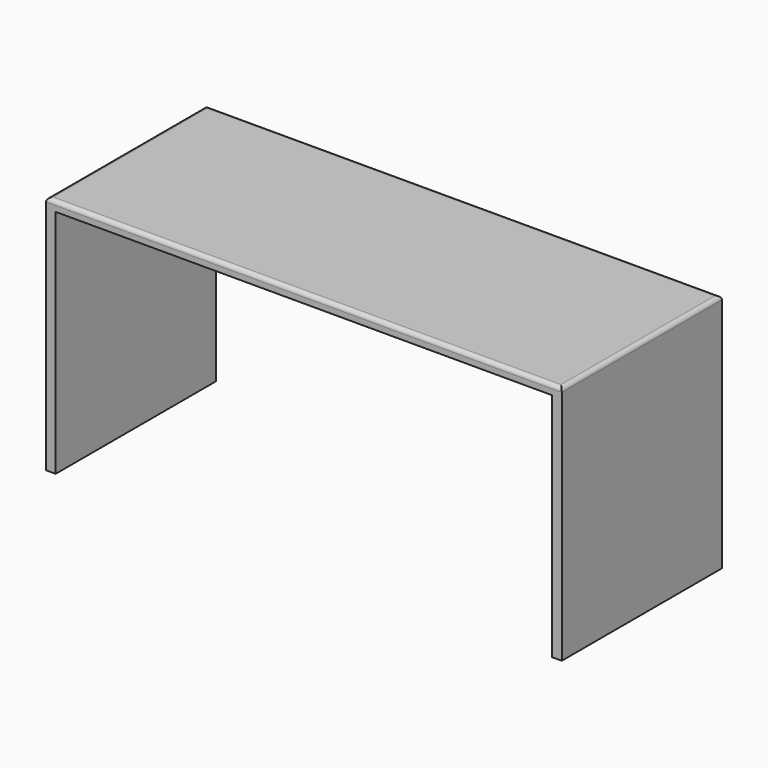
from build123d import *

# Parameters (mm, degrees)
F0_W     = 620
F0_H     = 250
F1_DEPTH = 12
F2_W     = 12
F2_H     = 250
F3_DEPTH = 300
F4_R     = 5


with BuildPart() as f1:
    # F0 (on Top) → F1 (new body)
    with BuildSketch(Plane.XY):
        with Locations((310, -125)):
            Rectangle(F0_W, F0_H)
    extrude(amount=-F1_DEPTH)

    # F2 (on Top) → F3 (join)
    with BuildSketch(Plane.XY):
        with Locations((-6, -125)):
            Rectangle(F2_W, F2_H)
        with Locations((626, -125)):
            Rectangle(F2_W, F2_H)
    extrude(amount=-F3_DEPTH)

    # F4
    f4_edges = [f1.edges().sort_by_distance(p)[0] for p in [
        (-12, -125, 0),
        (310, -250, 0),
        (632, -125, 0),
        (310, 0, 0),
    ]]
    fillet(f4_edges, radius=F4_R)


solid = f1.part
